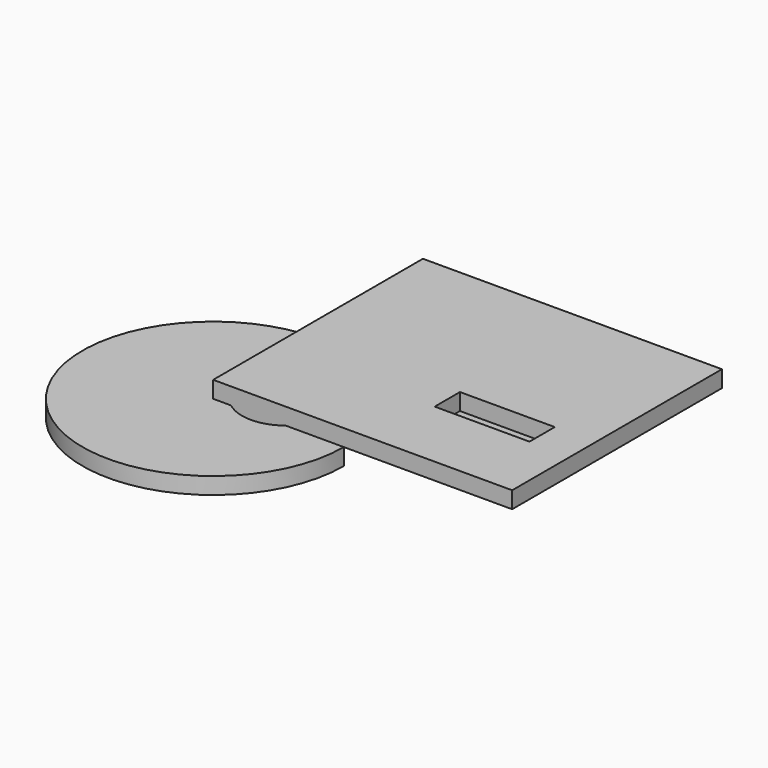
from build123d import *

# Parameters (mm, degrees)
F0_W     = 141.781181097
F0_H     = 47.2364425659
F2_DEPTH = 25
F1_W     = 141.781181097
F1_H     = 47.2364425659
F3_DEPTH = 25
F4_W     = 447.0715709031
F4_H     = 392.0415639877
F4_W_2   = 141.781181097
F4_H_2   = 47.2364425659
F5_DEPTH = 25
F6_R     = 58.2053766927
F7_DEPTH = 25


with BuildPart() as f2:
    # F0 (on Top) → F2 (new body)
    with BuildSketch(Plane.XY):
        with Locations((70.8905905485, -23.618221283)):
            Rectangle(F0_W, F0_H)
    extrude(amount=F2_DEPTH)


with BuildPart() as f3:
    # F1 (on face) → F3 (new body)
    with BuildSketch(Plane.XY):
        with Locations((70.8905905485, -23.618221283)):
            Rectangle(F1_W, F1_H)
    extrude(amount=F3_DEPTH)


with BuildPart() as f5:
    # F4 (on face) → F5 (new body)
    with BuildSketch(Plane.XY.offset(25)):
        with Locations((-20.7483563572, 40.1233434677)):
            Rectangle(F4_W, F4_H)
        with Locations((70.8905905485, -23.618221283)):
            Rectangle(F4_W_2, F4_H_2, mode=Mode.SUBTRACT)
    extrude(amount=F5_DEPTH)

    # F6 (on face) → F7 (join)
    with BuildSketch(Plane(origin=(0, 0, 25), x_dir=(1, 0, 0), z_dir=(0, 0, -1))):
        with BuildLine():
            Line((-135.7540871434, 155.8974385262), (-48.9331977702, 155.8974385262))
            ThreePointArc((-48.9331977702, 155.8974385262), (-382.4181190496, 294.031415767), (-244.2841418087, -39.4535055124))
            Line((-244.2841418087, -39.4535055124), (-244.2841418087, 155.8974385262))
            Line((-244.2841418087, 155.8974385262), (-217.6381264396, 155.8974385262))
            ThreePointArc((-217.6381264396, 155.8974385262), (-176.6961067915, 169.9801472237), (-135.7540871434, 155.8974385262))
        make_face()
        with Locations((-324.4167268276, 163.0218029022)):
            Circle(F6_R, mode=Mode.SUBTRACT)
        with BuildLine():
            ThreePointArc((-110.1403149555, 103.4243553877), (-116.8855643932, 132.6197736059), (-135.7540871434, 155.8974385262))
            Line((-135.7540871434, 155.8974385262), (-217.6381264396, 155.8974385262))
            ThreePointArc((-217.6381264396, 155.8974385262), (-205.8915250097, 43.6138129894), (-110.1403149555, 103.4243553877))
        make_face()
        with Locations((-324.4167268276, 163.0218029022)):
            Circle(F6_R)
    extrude(amount=F7_DEPTH)


solid = Compound([f2.part, f3.part, f5.part])
